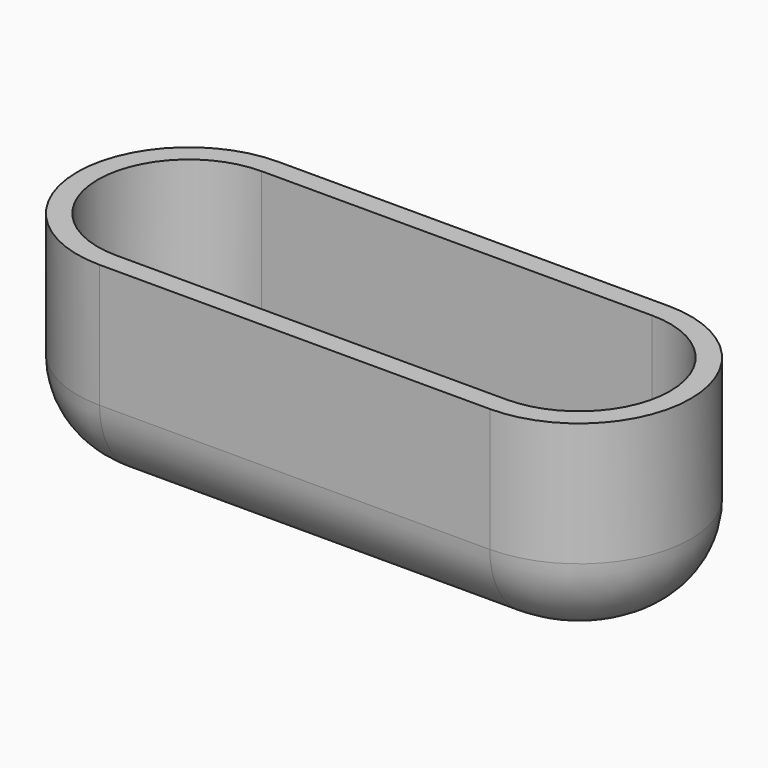
from build123d import *

# Parameters (mm, degrees)
F1_DEPTH = 25
F2_DEPTH = 25
F3_R     = 10
F4_T     = -2.5


with BuildPart() as f1:
    # F0 (on Top) → F1 (new body)
    with BuildSketch(Plane.XY):
        with BuildLine():
            Line((-47.356255, -13.546846), (0, -13.546846))
            ThreePointArc((0, -13.546846), (13.546846, 0), (0, 13.546846))
            Line((0, 13.546846), (-47.356255, 13.546846))
            ThreePointArc((-47.356255, 13.546846), (-60.903101, 0), (-47.356255, -13.546846))
        make_face()
    extrude(amount=F1_DEPTH)

    # F0 (on Top) → F2 (join)
    with BuildSketch(Plane.XY):
        with BuildLine():
            Line((-47.356255, -13.546846), (0, -13.546846))
            ThreePointArc((0, -13.546846), (13.546846, 0), (0, 13.546846))
            Line((0, 13.546846), (-47.356255, 13.546846))
            ThreePointArc((-47.356255, 13.546846), (-60.903101, 0), (-47.356255, -13.546846))
        make_face()
    extrude(amount=F2_DEPTH)

    # F3
    f3_edges = [f1.edges().sort_by_distance(p)[0] for p in [
        (-60.903101, 0, 0),
    ]]
    fillet(f3_edges, radius=F3_R)

    # F4
    f4_openings = [f1.faces().sort_by_distance(p)[0] for p in [
        (-23.678128, 0, 25),
    ]]
    offset(amount=F4_T, openings=f4_openings)


solid = f1.part
